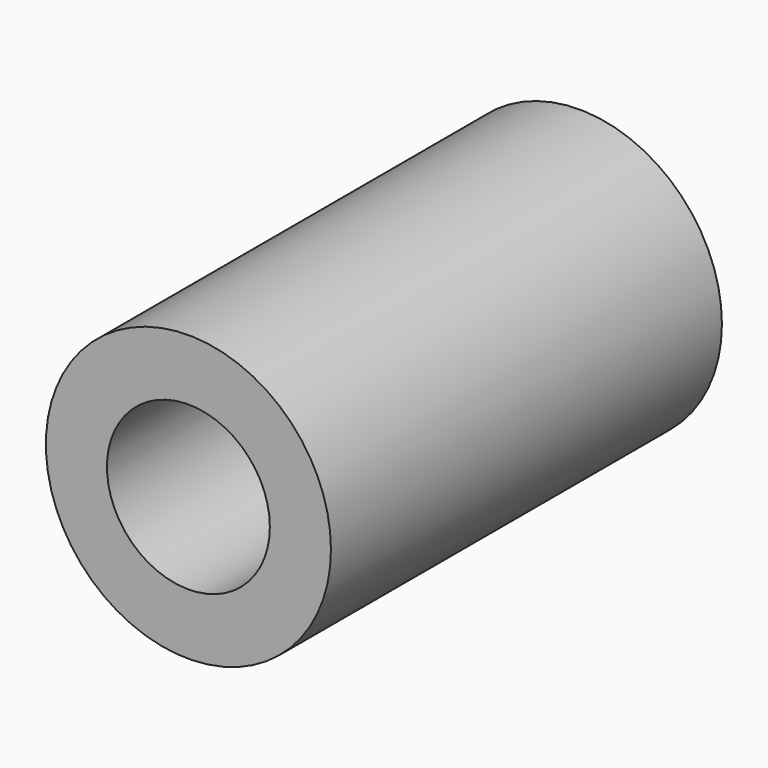
from build123d import *

# Parameters (mm, degrees)
F0_R     = 11.1125
F1_DEPTH = 19.05
F2_R     = 6.35
F3_DEPTH = 38.101


with BuildPart() as f1:
    # F0 (on Front) → F1 (new body, symmetric)
    with BuildSketch(Plane.XZ):
        Circle(F0_R)
    extrude(amount=F1_DEPTH, both=True)

    # F2 (on face) → F3 (cut, through all)
    with BuildSketch(Plane.XZ.offset(19.05)):
        Circle(F2_R)
    extrude(amount=-F3_DEPTH, mode=Mode.SUBTRACT)


solid = f1.part
